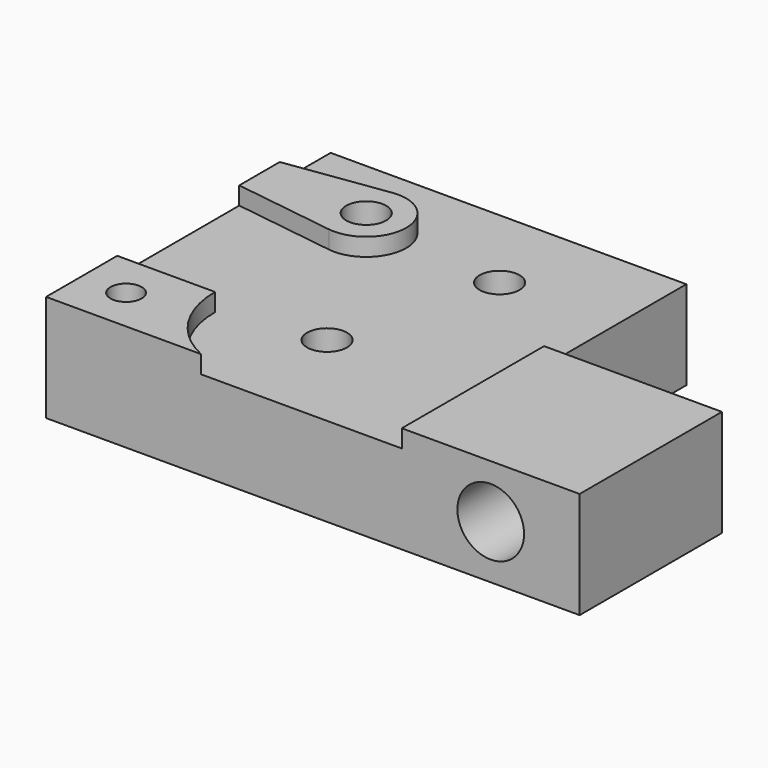
from build123d import *

# Parameters (mm, degrees)
SKETCH_R                       = 2.25
SKETCH_R_2                     = 1.75
PAD_DEPTH                      = 12
POCKET_DEPTH                   = 2
SKETCH002_R                    = 2.25
POCKET002_DEPTH                = 20.001
PART_MIRRORING_PLACEMENT_ANGLE = 180
SKETCH003_R                    = 3
POCKET003_DEPTH                = 8
SKETCH004_R                    = 3.75
POCKET004_DEPTH                = 10


with BuildPart() as pocket002:
    # Sketch → Pad (new body)
    with BuildSketch(Plane.XY):
        Polygon((0, -20), (40, -20), (40, 20), (-20, 20), (-20, 0), (0, 0), align=None)
        with Locations((18, 8)):
            Circle(SKETCH_R, mode=Mode.SUBTRACT)
        with Locations((13, -10)):
            Circle(SKETCH_R, mode=Mode.SUBTRACT)
        with Locations((35, 15)):
            Circle(SKETCH_R_2, mode=Mode.SUBTRACT)
        with Locations((28, -10)):
            Circle(SKETCH_R, mode=Mode.SUBTRACT)
    extrude(amount=PAD_DEPTH)

    # Sketch001 → Pocket (cut)
    with BuildSketch(Plane.XY.offset(12)):
        with BuildLine():
            Line((46, 10), (29, 10))
            ThreePointArc((29, 10), (25.778175, 17.778175), (18, 21))
            Line((18, 21), (0, 21))
            Line((0, 21), (0, -23))
            Line((0, -23), (46, -23))
            Line((46, -23), (46, -12))
            Line((28.629901, -14.455696), (46, -12))
            ThreePointArc((28.629901, -5.544304), (23.5, -10), (28.629901, -14.455696))
            Line((28.629901, -5.544304), (46, -8))
            Line((46, -8), (46, 10))
        make_face()
    extrude(amount=-POCKET_DEPTH, mode=Mode.SUBTRACT)

    # Sketch002 → Pocket002 (cut, through all)
    with BuildSketch(Plane.XZ):
        with Locations((-10, 6)):
            Circle(SKETCH002_R)
    extrude(amount=-POCKET002_DEPTH, mode=Mode.SUBTRACT)


with BuildPart() as pocket004:
    # Part__Mirroring: instance of Pocket002
    add(pocket002.part.mirror(Plane(origin=(10, -0.411961, 0), x_dir=(0, 1, 0), z_dir=(0, 0, 1))))


with BuildPart() as pocket004_1:
    # Part__Mirroring placement: moved
    add(pocket004.part.rotate(Axis((0, 0, 0), (1, 0, 0)), PART_MIRRORING_PLACEMENT_ANGLE))

    # Sketch003 → Pocket003 (cut)
    with BuildSketch(Plane(origin=(0, 0, 0), x_dir=(1, 0, 0), z_dir=(0, 0, -1))):
        with Locations((35, 15)):
            Circle(SKETCH003_R)
    extrude(amount=-POCKET003_DEPTH, mode=Mode.SUBTRACT)

    # Sketch004 → Pocket004 (cut)
    with BuildSketch(Plane(origin=(0, -20, 0), x_dir=(-1, 0, 0), z_dir=(0, -1, 0))):
        with Locations((10, -6)):
            Circle(SKETCH004_R)
    extrude(amount=-POCKET004_DEPTH, mode=Mode.SUBTRACT)


with BuildPart() as part_mirroring001:
    # Part__Mirroring001: instance of Pocket004
    add(pocket004_1.part.mirror(Plane(origin=(0, 0, 0), x_dir=(0, -1, 0), z_dir=(1, 0, 0))))


solid = part_mirroring001.part
